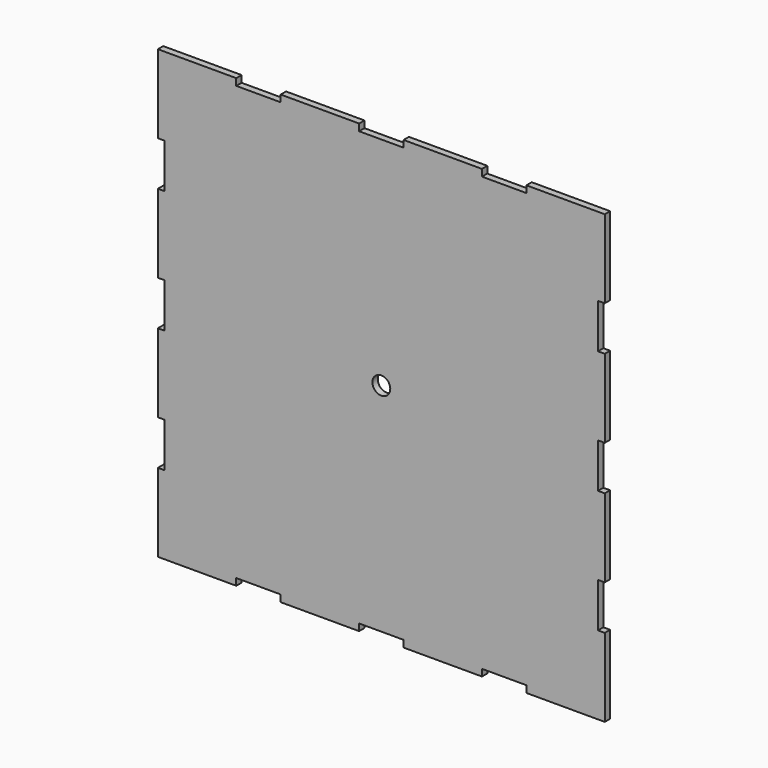
from build123d import *

# Parameters (mm, degrees)
F0_R     = 4
F1_DEPTH = 3


with BuildPart() as f1:
    # F0 (on Front) → F1 (new body)
    with BuildSketch(Plane.XZ):
        Polygon((64.925, -100), (100, -100), (100, -64.925), (96.95, -64.925), (96.95, -45.025), (100, -45.025), (100, -9.95), (96.95, -9.95), (96.95, 9.95), (100, 9.95), (100, 45.025), (96.95, 45.025), (96.95, 64.925), (100, 64.925), (100, 100), (64.925, 100), (64.925, 96.95), (45.025, 96.95), (45.025, 100), (9.95, 100), (9.95, 96.95), (-9.95, 96.95), (-9.95, 100), (-45.025, 100), (-45.025, 96.95), (-64.925, 96.95), (-64.925, 100), (-100, 100), (-100, 64.925), (-96.95, 64.925), (-96.95, 45.025), (-100, 45.025), (-100, 9.95), (-96.95, 9.95), (-96.95, -9.95), (-100, -9.95), (-100, -45.025), (-96.95, -45.025), (-96.95, -64.925), (-100, -64.925), (-100, -100), (-64.925, -100), (-64.925, -96.95), (-45.025, -96.95), (-45.025, -100), (-9.95, -100), (-9.95, -96.95), (9.95, -96.95), (9.95, -100), (45.025, -100), (45.025, -96.95), (64.925, -96.95), align=None)
        Circle(F0_R, mode=Mode.SUBTRACT)
    extrude(amount=F1_DEPTH)


solid = f1.part
